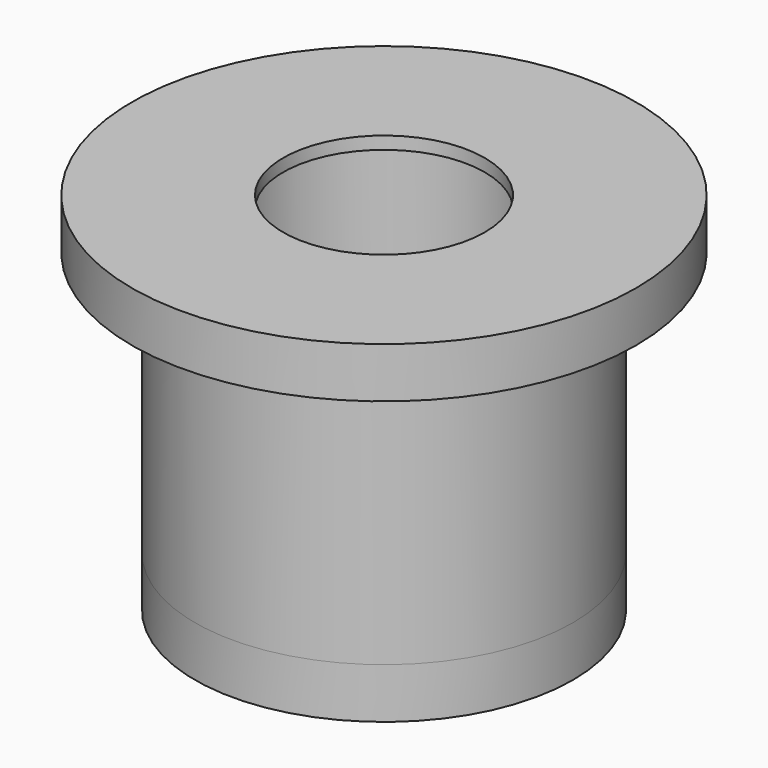
from build123d import *

# Parameters (mm, degrees)
F0_R     = 19.05
F1_DEPTH = 31.75
F4_R     = 25.4
F5_DEPTH = 5.08
F3_R     = 12.7
F6_DEPTH = 30.48
F2_R     = 10.16
F7_DEPTH = 42.672
F8_DEPTH = 5.08


with BuildPart() as f1:
    # F0 (on Top) → F1 (new body)
    with BuildSketch(Plane.XY):
        Circle(F0_R)
    extrude(amount=F1_DEPTH)

    # F4 (on face) → F5 (join)
    with BuildSketch(Plane.XY.offset(31.75)):
        Circle(F4_R)
    extrude(amount=-F5_DEPTH)

    # F3 (on face) → F6 (cut)
    with BuildSketch(Plane(origin=(0, 0, 0), x_dir=(1, 0, 0), z_dir=(0, 0, -1))):
        Circle(F3_R)
    extrude(amount=-F6_DEPTH, mode=Mode.SUBTRACT)

    # F2 (on face) → F7 (cut)
    with BuildSketch(Plane(origin=(0, 0, 0), x_dir=(1, 0, 0), z_dir=(0, 0, -1))):
        Circle(F2_R)
    extrude(amount=-F7_DEPTH, mode=Mode.SUBTRACT)

    # F8 (add): a face of the model
    f8_faces = [f1.faces().sort_by_distance(p)[0] for p in [
        (-18.5111846327, 0, 0),
    ]]
    extrude(f8_faces, amount=F8_DEPTH)


solid = f1.part
